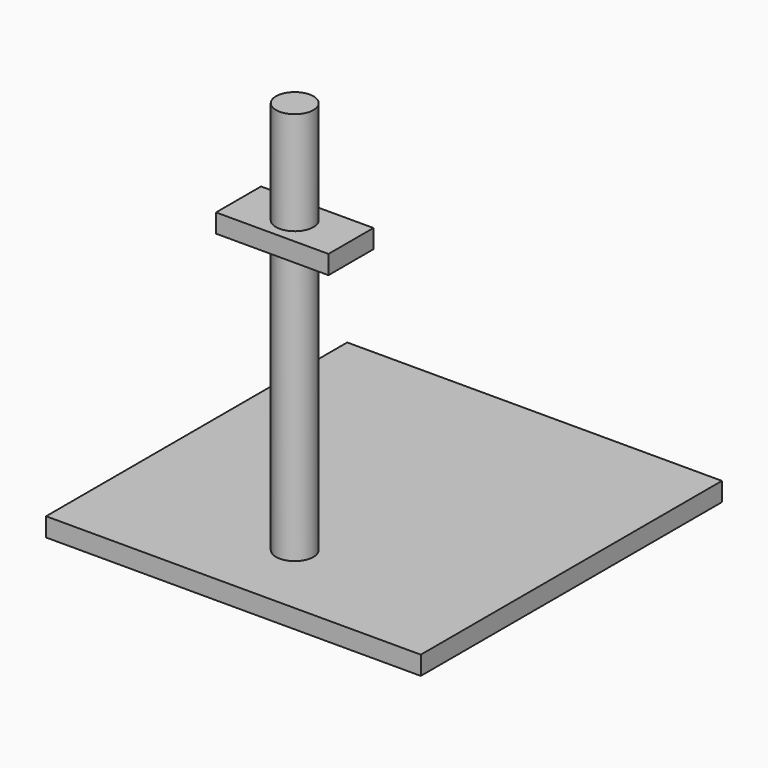
from build123d import *

# Parameters (mm, degrees)
F0_R     = 12.7
F1_DEPTH = 266.7
F3_W     = 76.2
F3_H     = 38.1
F4_DEPTH = 12.7
F5_W     = 254
F5_H     = 255.137313
F6_DEPTH = 12.7


with BuildPart() as f1:
    # F0 (on Top) → F1 (new body)
    with BuildSketch(Plane.XY):
        Circle(F0_R)
    extrude(amount=F1_DEPTH)

    # F3 (on offset) → F4 (join)
    with BuildSketch(Plane.XY.offset(196.85)):
        Rectangle(F3_W, F3_H)
    extrude(amount=-F4_DEPTH)

    # F5 (on face) → F6 (join)
    with BuildSketch(Plane(origin=(0, 0, 0), x_dir=(1, 0, 0), z_dir=(0, 0, -1))):
        with Locations((0, -75.631343)):
            Rectangle(F5_W, F5_H)
    extrude(amount=F6_DEPTH)


solid = f1.part
